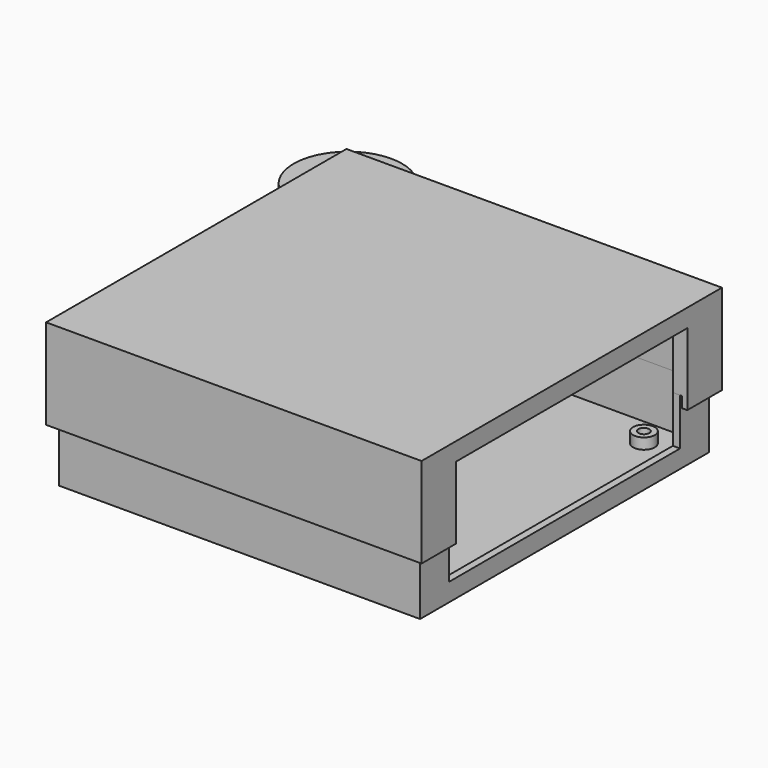
from build123d import *

# Parameters (mm, degrees)
SKETCH_W        = 100
SKETCH_H        = 100
PAD_DEPTH       = 18
SKETCH001_W     = 96
SKETCH001_H     = 96
POCKET_DEPTH    = 15
SKETCH002_R     = 3
SKETCH002_R_2   = 1.5
PAD001_DEPTH    = 3
SKETCH003_W     = 2
SKETCH003_H     = 25
SKETCH003_H_2   = 80
POCKET002_DEPTH = 13
SKETCH014_W     = 104
SKETCH014_H     = 104
PAD005_DEPTH    = 25
SKETCH015_W     = 101
SKETCH015_H     = 101
POCKET009_DEPTH = 3
SKETCH016_W     = 96
SKETCH016_H     = 96
POCKET010_DEPTH = 20
SKETCH017_W     = 4
SKETCH017_H     = 25
POCKET011_DEPTH = 15
SKETCH018_W     = 4
SKETCH018_H     = 25
POCKET012_DEPTH = 25
SKETCH019_W     = 4
SKETCH019_H     = 80
POCKET013_DEPTH = 30
SKETCH009_R     = 15
PAD004_DEPTH    = 10
SKETCH010_R     = 12.1
POCKET006_DEPTH = 5
POCKET007_DEPTH = 5.1
SKETCH012_R     = 0.95
POCKET008_DEPTH = 10
SKETCH021_R     = 1
SKETCH022_R     = 1.65
SKETCH007_R     = 1
SKETCH020_R     = 1.65
SKETCH004_R     = 12
PAD002_DEPTH    = 28
SKETCH005_R     = 8
POCKET003_DEPTH = 26
SKETCH006_R     = 10.5
POCKET004_DEPTH = 2
PAD003_DEPTH    = 5
FILLET_R        = 2
FILLET001_R     = 2


with BuildPart() as case_bottom:
    # Sketch → Pad (new body)
    with BuildSketch(Plane.XY):
        with Locations((50, -50)):
            Rectangle(SKETCH_W, SKETCH_H)
    extrude(amount=PAD_DEPTH)

    # Sketch001 → Pocket (cut)
    with BuildSketch(Plane.XY.offset(18)):
        with Locations((50, -50)):
            Rectangle(SKETCH001_W, SKETCH001_H)
    extrude(amount=-POCKET_DEPTH, mode=Mode.SUBTRACT)

    # Sketch002 → Pad001 (join)
    with BuildSketch(Plane.XY.offset(3)):
        with Locations((10, -10)):
            Circle(SKETCH002_R)
        with Locations((10, -10)):
            Circle(SKETCH002_R_2, mode=Mode.SUBTRACT)
        with Locations((90, -10)):
            Circle(SKETCH002_R)
        with Locations((90, -10)):
            Circle(SKETCH002_R_2, mode=Mode.SUBTRACT)
        with Locations((90, -90)):
            Circle(SKETCH002_R)
        with Locations((90, -90)):
            Circle(SKETCH002_R_2, mode=Mode.SUBTRACT)
        with Locations((10, -90)):
            Circle(SKETCH002_R)
        with Locations((10, -90)):
            Circle(SKETCH002_R_2, mode=Mode.SUBTRACT)
    extrude(amount=PAD001_DEPTH)

    # Sketch003 → Pocket002 (cut)
    with BuildSketch(Plane.XY.offset(18)):
        with Locations((1, -77.5)):
            Rectangle(SKETCH003_W, SKETCH003_H)
        with Locations((1, -37.5)):
            Rectangle(SKETCH003_W, SKETCH003_H)
        with Locations((99, -50)):
            Rectangle(SKETCH003_W, SKETCH003_H_2)
    extrude(amount=-POCKET002_DEPTH, mode=Mode.SUBTRACT)


with BuildPart() as case_top:
    # Sketch014 → Pad005 (new body)
    with BuildSketch(Plane.XY.offset(15)):
        with Locations((50, -50)):
            Rectangle(SKETCH014_W, SKETCH014_H)
    extrude(amount=PAD005_DEPTH)

    # Sketch015 → Pocket009 (cut)
    with BuildSketch(Plane.XY.offset(15)):
        with Locations((50, -50)):
            Rectangle(SKETCH015_W, SKETCH015_H)
    extrude(amount=POCKET009_DEPTH, mode=Mode.SUBTRACT)

    # Sketch016 → Pocket010 (cut)
    with BuildSketch(Plane.XY.offset(18)):
        with Locations((50, -50)):
            Rectangle(SKETCH016_W, SKETCH016_H)
    extrude(amount=POCKET010_DEPTH, mode=Mode.SUBTRACT)

    # Sketch017 → Pocket011 (cut)
    with BuildSketch(Plane.XY.offset(5)):
        with Locations((0, -37.5)):
            Rectangle(SKETCH017_W, SKETCH017_H)
    extrude(amount=POCKET011_DEPTH, mode=Mode.SUBTRACT)

    # Sketch018 → Pocket012 (cut)
    with BuildSketch(Plane.XY.offset(5)):
        with Locations((0, -77.5)):
            Rectangle(SKETCH018_W, SKETCH018_H)
    extrude(amount=POCKET012_DEPTH, mode=Mode.SUBTRACT)

    # Sketch019 → Pocket013 (cut)
    with BuildSketch(Plane.XY.offset(5)):
        with Locations((100, -50)):
            Rectangle(SKETCH019_W, SKETCH019_H)
    extrude(amount=POCKET013_DEPTH, mode=Mode.SUBTRACT)


with BuildPart() as obj1:
    # Sketch009 → Pad004 (new body)
    with BuildSketch(Plane.XY.offset(23)):
        Circle(SKETCH009_R)
    extrude(amount=PAD004_DEPTH)

    # Sketch010 → Pocket006 (cut)
    with BuildSketch(Plane.XY.offset(23)):
        Circle(SKETCH010_R)
    extrude(amount=POCKET006_DEPTH, mode=Mode.SUBTRACT)

    # Sketch011 → Pocket007 (cut)
    with BuildSketch(Plane.XY.offset(23)):
        with BuildLine():
            Line((-11.7149477165, 2.6), (-17.7149477165, 2.6))
            Line((-17.7149477165, 2.6), (-17.7149477165, -2.6))
            Line((-17.7149477165, -2.6), (-11.7149477165, -2.6))
            ThreePointArc((-11.7149477165, 2.6), (-12, 0), (-11.7149477165, -2.6))
        make_face()
        with BuildLine():
            Line((11.8928549979, 1.6), (17.8928549979, 1.6))
            Line((17.8928549979, 1.6), (17.8928549979, -1.6))
            Line((17.8928549979, -1.6), (11.8928549979, -1.6))
            ThreePointArc((11.8928549979, -1.6), (12, 0), (11.8928549979, 1.6))
        make_face()
    extrude(amount=POCKET007_DEPTH, mode=Mode.SUBTRACT)

    # Sketch012 → Pocket008 (cut)
    with BuildSketch(Plane.XY.offset(38)):
        with Locations((-2, 0)):
            Circle(SKETCH012_R)
        with Locations((2, 0)):
            Circle(SKETCH012_R)
    extrude(amount=-POCKET008_DEPTH, mode=Mode.SUBTRACT)


with BuildPart() as body005:
    # Sketch021 → AdditiveLoft001 section 0
    with BuildSketch(Plane(origin=(-6, 0, 0), x_dir=(1, 0, 0), z_dir=(0, -1, 0))):
        with Locations((3, 5)):
            Circle(SKETCH021_R)
    # Sketch022 → AdditiveLoft001 section 1
    with BuildSketch(Plane(origin=(-6, -6, 0), x_dir=(1, 0, 0), z_dir=(0, -1, 0))):
        with Locations((3, 5)):
            Circle(SKETCH022_R)
    loft()


with BuildPart() as electrodes:
    # Sketch007 → AdditiveLoft section 0
    with BuildSketch(Plane.XZ):
        with Locations((3, 5)):
            Circle(SKETCH007_R)
    # Sketch020 → AdditiveLoft section 1
    with BuildSketch(Plane.XZ.offset(6)):
        with Locations((3, 5)):
            Circle(SKETCH020_R)
    loft()

    # Compound: union Body005
    add(body005.part)


with BuildPart() as electrodes_1:
    # Compound placement: moved
    add(electrodes.part.moved(Location((0, -6.5, 0))))


with BuildPart() as obj2:
    # Sketch004 → Pad002 (new body)
    with BuildSketch(Plane.XY):
        Circle(SKETCH004_R)
    extrude(amount=PAD002_DEPTH)

    # Sketch005 → Pocket003 (cut)
    with BuildSketch(Plane.XY.offset(2)):
        Circle(SKETCH005_R)
    extrude(amount=POCKET003_DEPTH, mode=Mode.SUBTRACT)

    # Sketch006 → Pocket004 (cut)
    with BuildSketch(Plane.XY.offset(26)):
        Circle(SKETCH006_R)
    extrude(amount=POCKET004_DEPTH, mode=Mode.SUBTRACT)

    # Sketch008 → Pad003 (join)
    with BuildSketch(Plane.XY.offset(28)):
        with BuildLine():
            Line((-11.7366945943, 2.5), (-14.7366945943, 2.5))
            Line((-14.7366945943, 2.5), (-14.7366945943, -2.5))
            Line((-14.7366945943, -2.5), (-11.7366945943, -2.5))
            ThreePointArc((-11.7366945943, 2.5), (-12, 0), (-11.7366945943, -2.5))
        make_face()
        with BuildLine():
            Line((11.9058808998, 1.5), (14.9058808998, 1.5))
            Line((14.9058808998, 1.5), (14.9058808998, -1.5))
            Line((14.9058808998, -1.5), (11.9058808998, -1.5))
            ThreePointArc((11.9058808998, -1.5), (12, 0), (11.9058808998, 1.5))
        make_face()
    extrude(amount=-PAD003_DEPTH)

    # Fillet
    fillet_edges = [obj2.edges().sort_by_distance(p)[0] for p in [
        (12, 0, 11.5),
        (11.905881, 1.5, 25.5),
    ]]
    fillet(fillet_edges, radius=FILLET_R)

    # Fillet001
    fillet001_edges = [obj2.edges().sort_by_distance(p)[0] for p in [
        (11.905881, -1.5, 25.5),
    ]]
    fillet(fillet001_edges, radius=FILLET001_R)

    # Cut: cut electrodes
    add(electrodes_1.part, mode=Mode.SUBTRACT)


solid = Compound([case_bottom.part, case_top.part, obj1.part, obj2.part])
